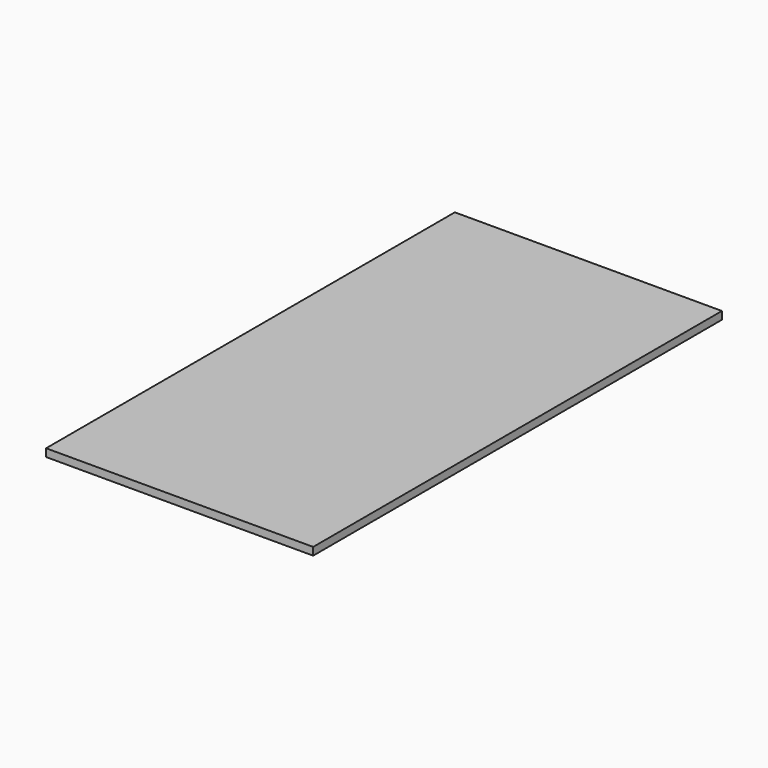
from build123d import *

# Parameters (mm, degrees)
SKETCH_W  = 138
SKETCH_H  = 264
PAD_DEPTH = 4


with BuildPart() as part:
    # Sketch → Pad (new body)
    with BuildSketch(Plane.XY):
        with Locations((69, 132)):
            Rectangle(SKETCH_W, SKETCH_H)
    extrude(amount=PAD_DEPTH)


solid = part.part
